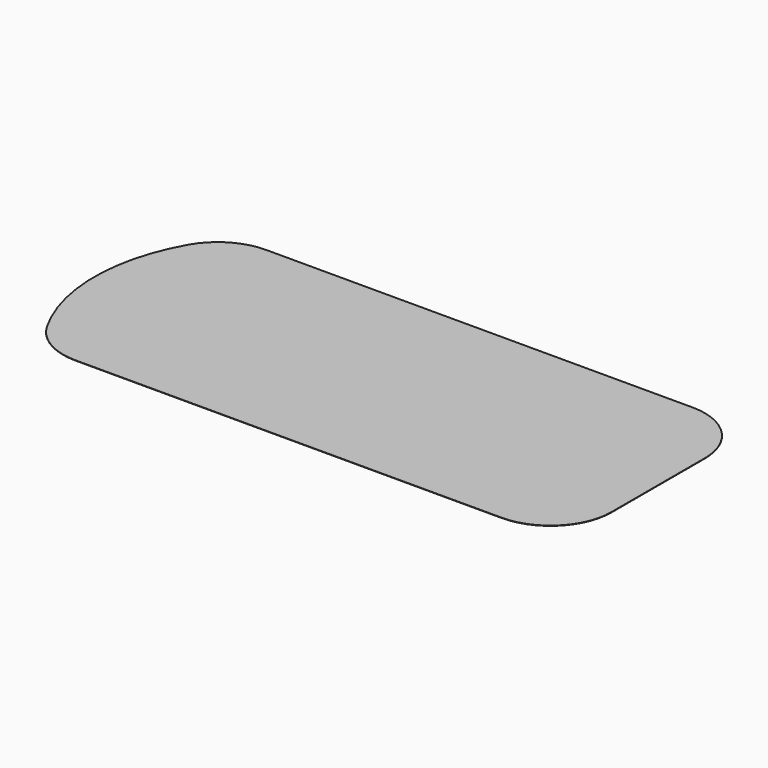
from build123d import *

# Parameters (mm, degrees)
F1_DEPTH = 3.175


with BuildPart() as f1:
    # F0 (on Top) → F1 (new body)
    with BuildSketch(Plane.XY):
        with BuildLine():
            Line((1981.2, 1193.8), (-2283.2693157394, 1193.8))
            ThreePointArc((-2283.2693157394, 1193.8), (-2442.570003458, 1172.6177520201), (-2590.8, 1110.5430803556))
            Line((-2590.8, 1110.5430803556), (-2590.8, -1110.5430803556))
            ThreePointArc((-2590.8, -1110.5430803556), (-2442.570003458, -1172.6177520201), (-2283.2693157394, -1193.8))
            Line((-2283.2693157394, -1193.8), (1981.2, -1193.8))
            ThreePointArc((1981.2, -1193.8), (2412.2522938113, -1015.2522938113), (2590.8, -584.2))
            Line((2590.8, -584.2), (2590.8, 584.2))
            ThreePointArc((2590.8, 584.2), (2412.2522938113, 1015.2522938113), (1981.2, 1193.8))
        make_face()
        with BuildLine():
            Line((-2590.8, -1110.5430803556), (-2590.8, 1110.5430803556))
            ThreePointArc((-2590.8, 1110.5430803556), (-2716.4010104345, 1013.1628131326), (-2812.5619992618, 886.6258837627))
            ThreePointArc((-2812.5619992618, 886.6258837627), (-3048, 0), (-2812.5619992618, -886.6258837627))
            ThreePointArc((-2812.5619992618, -886.6258837627), (-2716.4010104345, -1013.1628131326), (-2590.8, -1110.5430803556))
        make_face()
    extrude(amount=F1_DEPTH)


solid = f1.part
